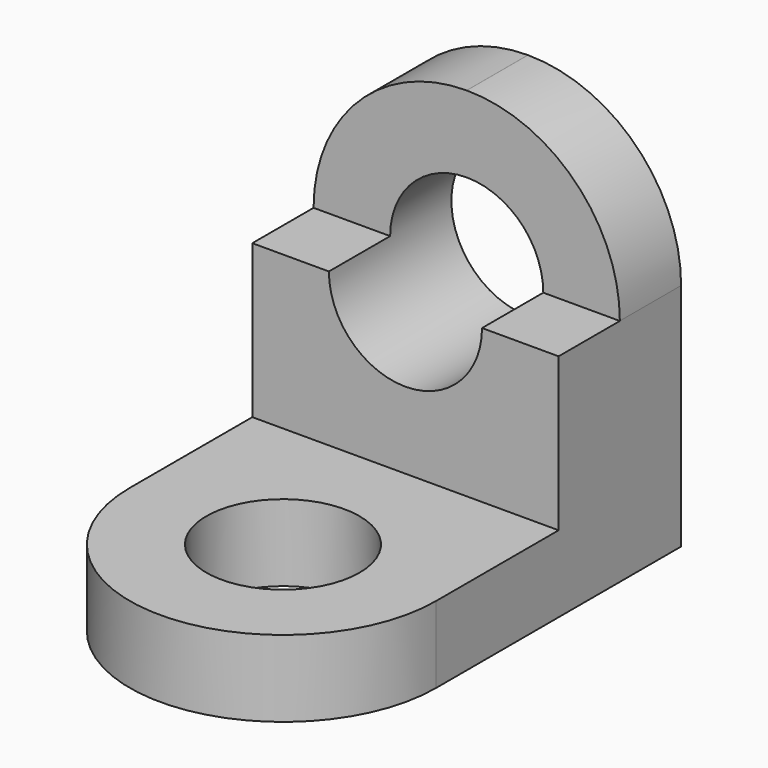
from build123d import *

# Parameters (mm, degrees)
PAD_DEPTH       = 5
SKETCH001_W     = 40
SKETCH001_H     = 10
PAD001_DEPTH    = 40
SKETCH002_W     = 40
SKETCH002_H     = 10
PAD002_DEPTH    = 20
SKETCH003_R     = 10
POCKET_DEPTH    = 20.001
FILLET_R        = 19.99
SKETCH004_R     = 10
POCKET001_DEPTH = 10.001


with BuildPart() as part:
    # Sketch → Pad (new body, symmetric)
    with BuildSketch(Plane.XY):
        with BuildLine():
            Line((-20, -2e-06), (-20, 40))
            Line((-20, 40), (20, 40))
            Line((20, 40), (20, 0))
            ThreePointArc((-20, -2e-06), (1e-06, -20), (20, 0))
        make_face()
    extrude(amount=PAD_DEPTH, both=True)

    # Sketch001 (on Face6 of Pad) → Pad001 (join)
    with BuildSketch(Plane.XY.offset(5)):
        with Locations((0, 35)):
            Rectangle(SKETCH001_W, SKETCH001_H)
    extrude(amount=PAD001_DEPTH)

    # Sketch002 (on Face3 of Pad001) → Pad002 (join)
    with BuildSketch(Plane.XY.offset(5)):
        with Locations((0, 25)):
            Rectangle(SKETCH002_W, SKETCH002_H)
    extrude(amount=PAD002_DEPTH)

    # Sketch003 (on Face7 of Pad002) → Pocket (cut, through all)
    with BuildSketch(Plane.XZ.offset(-20)):
        with Locations((0, 25)):
            Circle(SKETCH003_R)
    extrude(amount=-POCKET_DEPTH, mode=Mode.SUBTRACT)

    # Fillet
    fillet_edges = [part.edges().sort_by_distance(p)[0] for p in [
        (20, 35, 45),
        (-20, 35, 45),
    ]]
    fillet(fillet_edges, radius=FILLET_R)

    # Sketch004 (on Face13 of Fillet) → Pocket001 (cut, through all)
    with BuildSketch(Plane.XY.offset(5)):
        Circle(SKETCH004_R)
    extrude(amount=-POCKET001_DEPTH, mode=Mode.SUBTRACT)


solid = part.part
